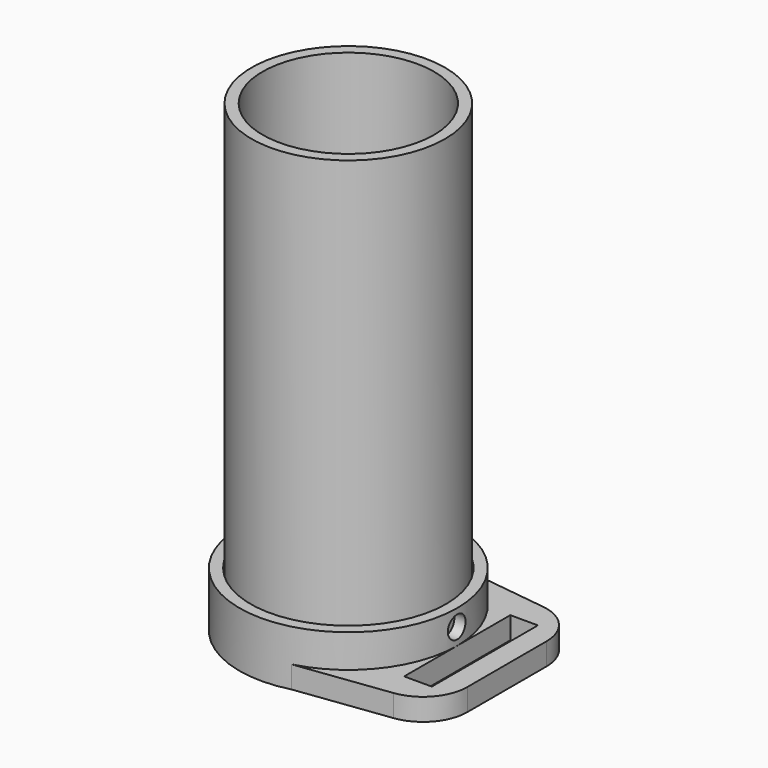
from build123d import *

# Parameters (mm, degrees)
SKETCH_R      = 8.75
SKETCH_R_2    = 7.75
PAD_DEPTH     = 42
SKETCH001_R   = 9.85
SKETCH001_R_2 = 8.85
PAD001_DEPTH  = 5
SKETCH002_W   = 2.5
SKETCH002_H   = 12
PAD002_DEPTH  = 2
SKETCH003_R   = 4.125
SKETCH003_R_2 = 3.125
PAD003_DEPTH  = 6
FILLET_R      = 4
SKETCH004_R   = 1
POCKET_DEPTH  = 14.351


with BuildPart() as body:
    # Sketch → Pad (new body)
    with BuildSketch(Plane.XY):
        Circle(SKETCH_R)
        Circle(SKETCH_R_2, mode=Mode.SUBTRACT)
    extrude(amount=PAD_DEPTH)


with BuildPart() as body001:
    # Sketch001 → Pad001 (new body)
    with BuildSketch(Plane.XY):
        Circle(SKETCH001_R)
        Circle(SKETCH001_R_2, mode=Mode.SUBTRACT)
    extrude(amount=PAD001_DEPTH)

    # Sketch002 → Pad002 (join)
    with BuildSketch(Plane.XY):
        with BuildLine():
            Line((14.35, -8), (14.35, 8))
            Line((0, 9.85), (14.35, 8))
            ThreePointArc((0, 9.85), (-9.85, 0), (0, -9.85))
            Line((0, -9.85), (14.35, -8))
        make_face()
        with Locations((11.1, 0)):
            Rectangle(SKETCH002_W, SKETCH002_H, mode=Mode.SUBTRACT)
    extrude(amount=PAD002_DEPTH)

    # Sketch003 → Pad003 (join)
    with BuildSketch(Plane.XY):
        Circle(SKETCH003_R)
        Circle(SKETCH003_R_2, mode=Mode.SUBTRACT)
    extrude(amount=PAD003_DEPTH)

    # Fillet
    fillet_edges = [body001.edges().sort_by_distance(p)[0] for p in [
        (14.35, 8, 1),
        (14.35, -8, 1),
    ]]
    fillet(fillet_edges, radius=FILLET_R)

    # Sketch004 → Pocket (cut, through all)
    with BuildSketch(Plane.YZ):
        with Locations((0, 3.5)):
            Circle(SKETCH004_R)
    extrude(amount=POCKET_DEPTH, mode=Mode.SUBTRACT)


solid = Compound([body.part, body001.part])
